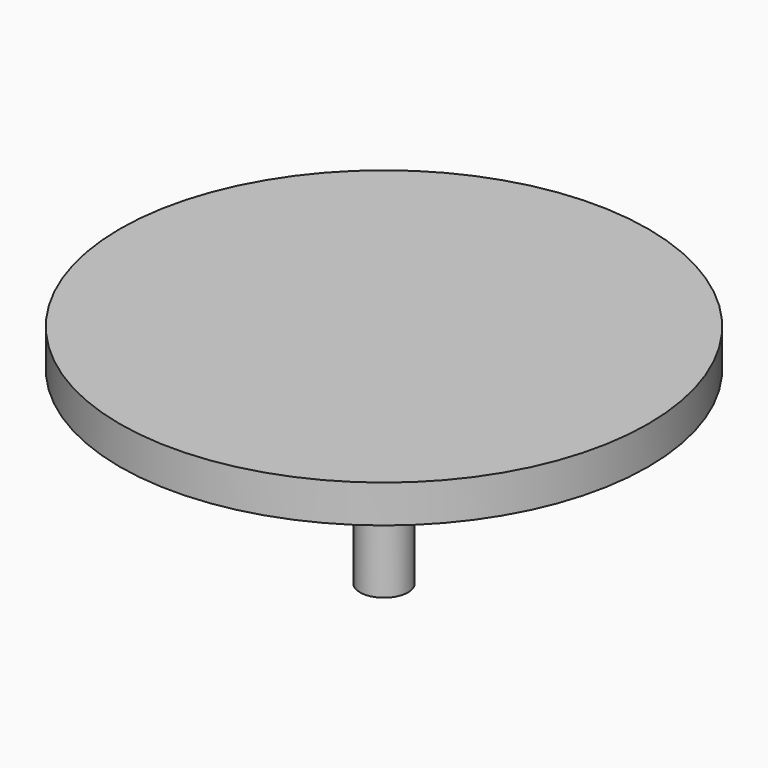
from build123d import *

# Parameters (mm, degrees)
SKETCH_R     = 35
PAD_DEPTH    = 5
SKETCH001_R  = 3.175
PAD001_DEPTH = 25


with BuildPart() as part:
    # Sketch → Pad (new body)
    with BuildSketch(Plane.XY):
        Circle(SKETCH_R)
    extrude(amount=PAD_DEPTH)

    # Sketch001 (on Face2 of Pad) → Pad001 (join)
    with BuildSketch(Plane(origin=(0, 0, 0), x_dir=(1, 0, 0), z_dir=(0, 0, -1))):
        Circle(SKETCH001_R)
    extrude(amount=PAD001_DEPTH)


solid = part.part
